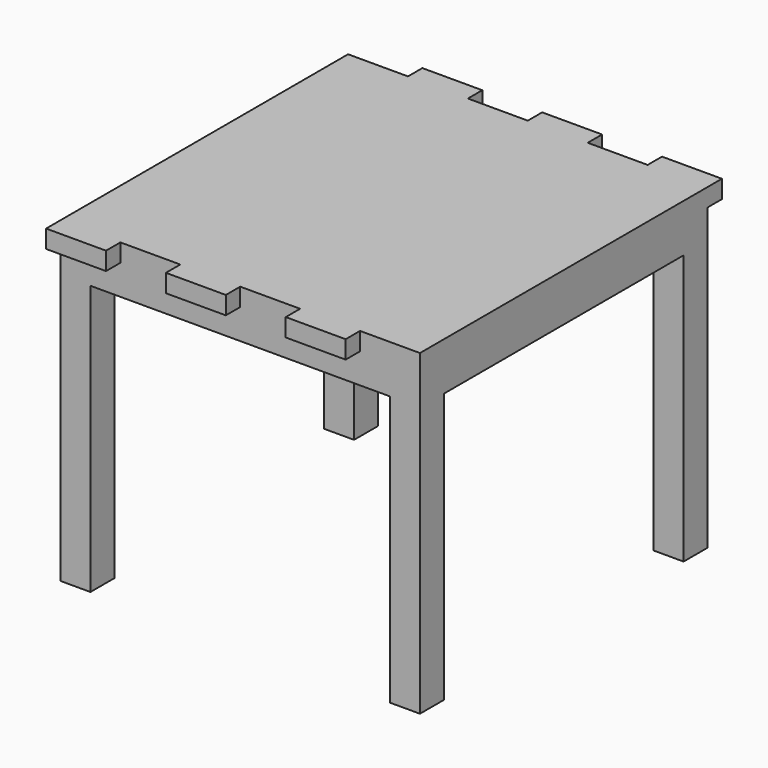
from build123d import *

# Parameters (mm, degrees)
F0_W     = 60
F0_H     = 60
F0_W_2   = 50
F0_H_2   = 50
F1_DEPTH = 5
F2_W     = 5
F2_H     = 5
F3_DEPTH = 45
F5_DEPTH = 3


with BuildPart() as f1:
    # F0 (on Top) → F1 (new body)
    with BuildSketch(Plane.XY):
        with Locations((-30, 30)):
            Rectangle(F0_W, F0_H)
        with Locations((-30, 30)):
            Rectangle(F0_W_2, F0_H_2, mode=Mode.SUBTRACT)
    extrude(amount=F1_DEPTH)

    # F2 (on face) → F3 (join)
    with BuildSketch(Plane(origin=(0, 0, 0), x_dir=(1, 0, 0), z_dir=(0, 0, -1))):
        with Locations((-2.5, -2.5)):
            Rectangle(F2_W, F2_H)
        with Locations((-57.5, -2.5)):
            Rectangle(F2_W, F2_H)
        with Locations((-2.5, -57.5)):
            Rectangle(F2_W, F2_H)
        with Locations((-57.5, -57.5)):
            Rectangle(F2_W, F2_H)
    extrude(amount=F3_DEPTH)

    # F4 (on face) → F5 (join)
    with BuildSketch(Plane.XY.offset(5)):
        Polygon((-10, 0), (0, 0), (0, 63), (-10, 63), (-10, 60), align=None)
        Polygon((-10, -3), (-10, 0), (-10, 60), (-20, 60), (-20, 0), (-20, -3), align=None)
        Polygon((-20, 0), (-20, 60), (-20, 63), (-30, 63), (-30, 60), (-30, 0), align=None)
        Polygon((-30, -3), (-30, 0), (-30, 60), (-40, 60), (-40, 0), (-40, -3), align=None)
        Polygon((-40, 0), (-40, 60), (-40, 63), (-50, 63), (-50, 60), (-50, 0), align=None)
        Polygon((-50, -3), (-50, 0), (-50, 60), (-60, 60), (-60, -3), align=None)
    extrude(amount=F5_DEPTH)


solid = f1.part
